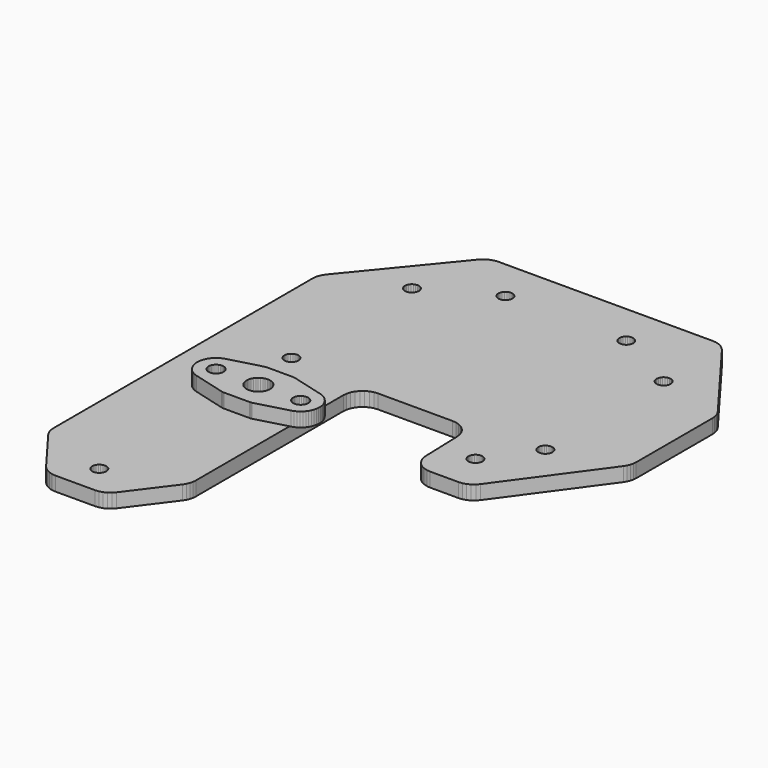
from build123d import *

# Parameters (mm, degrees)
F1_DEPTH = 3
F2_DEPTH = 3
F4_ANGLE = 90


with BuildPart() as f1:
    # F0 (on Top) → F1 (new body)
    with BuildSketch(Plane.XY):
        Polygon((-52.366553, 33.64847), (-52.70571, 32.970148), (-52.913977, 32.240923), (-52.984198, 31.485788), (-52.979315, -14.022749), (-52.915175, -14.742693), (-52.725447, -15.44015), (-52.41606, -16.093382), (-51.996642, -16.682047), (-51.480261, -17.187804), (-31.605048, -33.479494), (-31.025458, -33.876646), (-30.386511, -34.168879), (-29.707007, -34.34759), (-29.006964, -34.407519), (39.828494, -34.373434), (40.483932, -34.320311), (41.122417, -34.162966), (41.727483, -33.905451), (42.283532, -33.554411), (51.346155, -26.757445), (51.908397, -26.247889), (52.366977, -25.643351), (52.706151, -24.964583), (52.914273, -24.234892), (52.984198, -23.47933), (52.980023, -15.047232), (52.909458, -14.292311), (52.700929, -13.563341), (52.361585, -12.885309), (51.903058, -12.281458), (51.34107, -11.77249), (42.277164, -4.978495), (41.720119, -4.627138), (41.113954, -4.369623), (40.474349, -4.21261), (39.817844, -4.160158), (0.569406, -4.1905), (-0.229964, -4.112356), (-0.998702, -3.879687), (-1.707236, -3.501448), (-2.328322, -2.992193), (-2.838057, -2.371504), (-3.216849, -1.663252), (-3.450103, -0.894697), (-3.528868, -0.095396), (-3.528868, 15.770502), (-3.453314, 16.553499), (-3.229445, 17.307604), (-2.865523, 18.004991), (-2.374961, 18.619928), (-1.775878, 19.129724), (-1.090377, 19.515573), (-0.343741, 19.763223), (0.436464, 19.863558), (9.040143, 20.136339), (9.820352, 20.236665), (10.566984, 20.484316), (11.252488, 20.870165), (11.851571, 21.379961), (12.34213, 21.994898), (12.706056, 22.692285), (12.929925, 23.44639), (13.005479, 24.229387), (13.005479, 30.229387), (12.933156, 30.995615), (12.718744, 31.734781), (12.369817, 32.42077), (11.898694, 33.02936), (11.322023, 33.539049), (-8.581183, 48.041925), (-9.129889, 48.379091), (-9.724669, 48.626062), (-10.350814, 48.776735), (-10.992835, 48.827379), (-31.227126, 48.827379), (-31.883086, 48.7745), (-32.522109, 48.617227), (-33.127692, 48.359628), (-33.684188, 48.008356), (-51.346152, 34.761881), (-51.908126, 34.252619), align=None)
        Polygon((-37.592711, -18.231371), (-37.282057, -17.992991), (-36.920279, -17.843142), (-36.532057, -17.792032), (-36.143828, -17.843142), (-35.782057, -17.992991), (-35.471396, -18.231371), (-35.233016, -18.542032), (-35.083167, -18.903803), (-35.032057, -19.292032), (-35.083167, -19.680258), (-35.233016, -20.042032), (-35.471396, -20.35269), (-35.782057, -20.59107), (-36.143828, -20.740919), (-36.532057, -20.792032), (-36.920279, -20.740919), (-37.282057, -20.59107), (-37.592711, -20.35269), (-37.831092, -20.042032), (-37.980941, -19.680258), (-38.032057, -19.292032), (-37.980941, -18.903803), (-37.831092, -18.542032), align=None, mode=Mode.SUBTRACT)
        Polygon((-43.701399, -6.909994), (-44.089629, -6.961107), (-44.477858, -6.909994), (-44.839629, -6.760145), (-45.15029, -6.521765), (-45.388671, -6.211107), (-45.53852, -5.849333), (-45.589629, -5.461107), (-45.53852, -5.072878), (-45.388671, -4.711107), (-45.15029, -4.400446), (-44.839629, -4.16207), (-44.477858, -4.012217), (-44.089629, -3.961107), (-43.701399, -4.012217), (-43.339629, -4.16207), (-43.028968, -4.400446), (-42.790587, -4.711107), (-42.640738, -5.072878), (-42.589629, -5.461107), (-42.640738, -5.849333), (-42.790587, -6.211107), (-43.028968, -6.521765), (-43.339629, -6.760145), align=None, mode=Mode.SUBTRACT)
        Polygon((-4.525183, -20.792032), (-4.913413, -20.740919), (-5.275183, -20.59107), (-5.585845, -20.35269), (-5.824225, -20.042032), (-5.974074, -19.680258), (-6.025183, -19.292032), (-5.974074, -18.903803), (-5.824225, -18.542032), (-5.585845, -18.231371), (-5.275183, -17.992991), (-4.913413, -17.843142), (-4.525183, -17.792032), (-4.136954, -17.843142), (-3.775183, -17.992991), (-3.464522, -18.231371), (-3.226149, -18.542032), (-3.076293, -18.903803), (-3.025183, -19.292032), (-3.076293, -19.680258), (-3.226149, -20.042032), (-3.464522, -20.35269), (-3.775183, -20.59107), (-4.136954, -20.740919), align=None, mode=Mode.SUBTRACT)
        Polygon((15.773851, -20.032622), (15.535474, -20.343283), (15.224813, -20.58166), (14.863042, -20.731512), (14.474813, -20.782622), (14.086583, -20.731512), (13.724813, -20.58166), (13.414151, -20.343283), (13.175775, -20.032622), (13.025922, -19.670851), (12.974813, -19.282622), (13.025922, -18.894392), (13.175775, -18.532622), (13.414151, -18.22196), (13.724813, -17.983584), (14.086583, -17.833735), (14.474813, -17.782622), (14.863042, -17.833735), (15.224813, -17.983584), (15.535474, -18.22196), (15.773851, -18.532622), (15.9237, -18.894392), (15.974813, -19.282622), (15.9237, -19.670851), align=None, mode=Mode.SUBTRACT)
        Polygon((3.474817, -11.287325), (3.525926, -10.8991), (3.675775, -10.537325), (3.914155, -10.226668), (4.224817, -9.988287), (4.586587, -9.838438), (4.974813, -9.787325), (5.363042, -9.838438), (5.724813, -9.988287), (6.035474, -10.226668), (6.273851, -10.537325), (6.423703, -10.8991), (6.474813, -11.287325), (6.423703, -11.675555), (6.273851, -12.037325), (6.035474, -12.347986), (5.724813, -12.586363), (5.363042, -12.736216), (4.974813, -12.787325), (4.586587, -12.736216), (4.224817, -12.586363), (3.914155, -12.347986), (3.675775, -12.037325), (3.525926, -11.675555), align=None, mode=Mode.SUBTRACT)
        Polygon((46.514798, -20.808371), (46.126569, -20.757262), (45.764798, -20.607409), (45.454137, -20.369032), (45.215761, -20.058371), (45.06591, -19.6966), (45.014798, -19.308371), (45.06591, -18.920141), (45.215761, -18.558371), (45.454137, -18.24771), (45.764798, -18.009333), (46.126569, -17.859484), (46.514798, -17.808371), (46.903026, -17.859484), (47.264798, -18.009333), (47.575458, -18.24771), (47.813836, -18.558371), (47.963687, -18.920141), (48.014798, -19.308371), (47.963687, -19.6966), (47.813836, -20.058371), (47.575458, -20.369032), (47.264798, -20.607409), (46.903026, -20.757262), align=None, mode=Mode.SUBTRACT)
        Polygon((-44.089629, 21.729387), (-43.701399, 21.678278), (-43.339629, 21.528429), (-43.028968, 21.290048), (-42.790587, 20.979387), (-42.640738, 20.617616), (-42.589629, 20.229387), (-42.640738, 19.841158), (-42.790587, 19.479387), (-43.028968, 19.168726), (-43.339629, 18.930345), (-43.701399, 18.780496), (-44.089629, 18.729387), (-44.477858, 18.780496), (-44.839629, 18.930345), (-45.15029, 19.168726), (-45.388671, 19.479387), (-45.53852, 19.841158), (-45.589629, 20.229387), (-45.53852, 20.617616), (-45.388671, 20.979387), (-45.15029, 21.290048), (-44.839629, 21.528429), (-44.477858, 21.678278), align=None, mode=Mode.SUBTRACT)
        Polygon((-35.233016, 33.479387), (-35.471396, 33.168726), (-35.782057, 32.930345), (-36.143828, 32.780496), (-36.532057, 32.729387), (-36.920279, 32.780496), (-37.282057, 32.930345), (-37.592711, 33.168726), (-37.831092, 33.479387), (-37.980941, 33.841158), (-38.032057, 34.229387), (-37.980941, 34.617616), (-37.831092, 34.979387), (-37.592711, 35.290048), (-37.282057, 35.528429), (-36.920279, 35.678278), (-36.532057, 35.729387), (-36.143828, 35.678278), (-35.782057, 35.528429), (-35.471396, 35.290048), (-35.233016, 34.979387), (-35.083167, 34.617616), (-35.032057, 34.229387), (-35.083167, 33.841158), align=None, mode=Mode.SUBTRACT)
        Polygon((-4.701399, 32.780496), (-5.089629, 32.729387), (-5.477858, 32.780496), (-5.839629, 32.930345), (-6.15029, 33.168726), (-6.388671, 33.479387), (-6.53852, 33.841158), (-6.589629, 34.229387), (-6.53852, 34.617616), (-6.388671, 34.979387), (-6.15029, 35.290048), (-5.839629, 35.528429), (-5.477858, 35.678278), (-5.089629, 35.729387), (-4.701399, 35.678278), (-4.339629, 35.528429), (-4.028968, 35.290048), (-3.790587, 34.979387), (-3.640738, 34.617616), (-3.589629, 34.229387), (-3.640738, 33.841158), (-3.790587, 33.479387), (-4.028968, 33.168726), (-4.339629, 32.930345), align=None, mode=Mode.SUBTRACT)
        Polygon((5.126535, 25.780496), (4.738305, 25.729387), (4.350076, 25.780496), (3.988305, 25.930345), (3.677644, 26.168726), (3.439264, 26.479387), (3.289415, 26.841158), (3.238305, 27.229387), (3.289415, 27.617616), (3.439264, 27.979387), (3.677644, 28.290048), (3.988305, 28.528429), (4.350076, 28.678278), (4.738305, 28.729387), (5.126535, 28.678278), (5.488305, 28.528429), (5.798963, 28.290048), (6.037343, 27.979387), (6.187192, 27.617616), (6.238305, 27.229387), (6.187192, 26.841158), (6.037343, 26.479387), (5.798963, 26.168726), (5.488305, 25.930345), align=None, mode=Mode.SUBTRACT)
    extrude(amount=F1_DEPTH)


with BuildPart() as f2:
    # F0 (on Top) → F2 (new body)
    with BuildSketch(Plane.XY):
        Polygon((-6.350115, -45.956777), (-5.969446, -46.277126), (-5.551953, -46.54774), (-5.104094, -46.764433), (-4.6328, -46.923853), (2.154471, -48.758116), (2.32614, -48.796496), (2.500517, -48.819644), (2.676253, -48.82738), (8.145277, -48.82738), (8.321013, -48.819644), (8.49539, -48.796496), (8.667059, -48.758116), (15.45433, -46.923853), (15.925624, -46.764433), (16.373483, -46.54774), (16.790976, -46.277126), (17.171645, -45.956777), (17.509603, -45.59165), (17.799617, -45.187392), (18.037204, -44.750259), (18.218687, -44.287013), (18.341258, -43.804821), (18.403022, -43.311143), (18.403022, -42.813616), (18.341258, -42.319938), (18.218687, -41.837746), (18.037204, -41.3745), (17.799617, -40.937367), (17.509603, -40.53311), (17.171645, -40.167982), (16.790976, -39.847633), (16.373483, -39.577019), (15.925624, -39.360326), (15.45433, -39.200907), (8.667059, -37.366643), (8.49539, -37.328263), (8.321013, -37.305116), (8.145277, -37.29738), (2.676253, -37.29738), (2.500517, -37.305116), (2.32614, -37.328263), (2.154471, -37.366643), (-4.6328, -39.200907), (-5.104094, -39.360326), (-5.551953, -39.577019), (-5.969446, -39.847633), (-6.350115, -40.167982), (-6.688073, -40.53311), (-6.978087, -40.937367), (-7.215674, -41.3745), (-7.397157, -41.837746), (-7.519728, -42.319938), (-7.581492, -42.813616), (-7.581492, -43.311143), (-7.519728, -43.804821), (-7.397157, -44.287013), (-7.215674, -44.750259), (-6.978087, -45.187392), (-6.688073, -45.59165), align=None)
        Polygon((-3.277091, -44.631636), (-3.589235, -44.66238), (-3.901379, -44.631636), (-4.201528, -44.540587), (-4.478147, -44.392731), (-4.720606, -44.193751), (-4.919587, -43.951292), (-5.067443, -43.674673), (-5.158492, -43.374524), (-5.189235, -43.06238), (-5.158492, -42.750235), (-5.067443, -42.450086), (-4.919587, -42.173467), (-4.720606, -41.931009), (-4.478147, -41.732028), (-4.201528, -41.584173), (-3.901379, -41.493123), (-3.589235, -41.46238), (-3.277091, -41.493123), (-2.976942, -41.584173), (-2.700323, -41.732028), (-2.457864, -41.931009), (-2.258884, -42.173467), (-2.111028, -42.450086), (-2.019979, -42.750235), (-1.989235, -43.06238), (-2.019979, -43.374524), (-2.111028, -43.674673), (-2.258884, -43.951292), (-2.457864, -44.193751), (-2.700323, -44.392731), (-2.976942, -44.540587), align=None, mode=Mode.SUBTRACT)
        Polygon((3.539488, -41.404573), (3.829652, -41.125867), (4.160765, -40.897316), (4.524253, -40.724839), (4.910701, -40.612903), (5.3101, -40.564407), (5.712107, -40.580608), (6.106309, -40.661085), (6.482496, -40.803754), (6.830927, -41.00492), (7.142576, -41.259374), (7.409372, -41.560524), (7.624405, -41.900572), (7.782106, -42.27071), (7.878391, -42.661352), (7.910765, -43.06238), (7.878391, -43.463408), (7.782106, -43.85405), (7.624405, -44.224188), (7.409372, -44.564235), (7.142576, -44.865386), (6.830927, -45.119839), (6.482496, -45.321006), (6.106309, -45.463675), (5.712107, -45.544152), (5.3101, -45.560352), (4.910701, -45.511856), (4.524253, -45.39992), (4.160765, -45.227443), (3.829652, -44.998892), (3.539488, -44.720186), (3.29779, -44.398544), (3.110816, -44.042296), (2.98341, -43.660669), (2.918872, -43.263546), (2.918872, -42.861213), (2.98341, -42.464091), (3.110816, -42.082463), (3.29779, -41.726215), align=None, mode=Mode.SUBTRACT)
        Polygon((13.798472, -41.584173), (14.098621, -41.493123), (14.410765, -41.46238), (14.722909, -41.493123), (15.023058, -41.584173), (15.299677, -41.732028), (15.542136, -41.931009), (15.741117, -42.173467), (15.888973, -42.450086), (15.980022, -42.750235), (16.010765, -43.06238), (15.980022, -43.374524), (15.888973, -43.674673), (15.741117, -43.951292), (15.542136, -44.193751), (15.299677, -44.392731), (15.023058, -44.540587), (14.722909, -44.631636), (14.410765, -44.66238), (14.098621, -44.631636), (13.798472, -44.540587), (13.521853, -44.392731), (13.279394, -44.193751), (13.080414, -43.951292), (12.932558, -43.674673), (12.841509, -43.374524), (12.810765, -43.06238), (12.841509, -42.750235), (12.932558, -42.450086), (13.080414, -42.173467), (13.279394, -41.931009), (13.521853, -41.732028), align=None, mode=Mode.SUBTRACT)
    extrude(amount=F2_DEPTH)


with BuildPart() as f2_1:
    # F3: moved
    add(f2.part.moved(Location((0, 0, 22))))


with BuildPart() as f1_1:
    # F4: moved
    add(f1.part.rotate(Axis((-3.528868, -0.095396, 1.5), (0, 0, -1)), F4_ANGLE))


solid = Compound([f2_1.part, f1_1.part])
